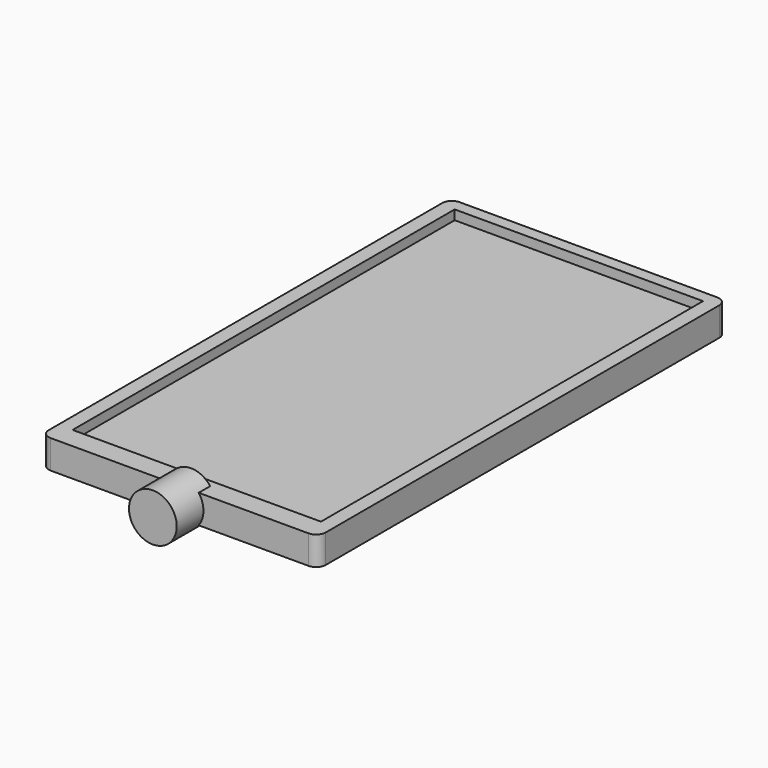
from build123d import *

# Parameters (mm, degrees)
SKETCH007_R       = 2.5
PAD006_DEPTH      = 5
SKETCH008_W       = 29
SKETCH008_H       = 3
PAD007_DEPTH      = 52
PAD007_DEPTH_BACK = 1.5
FILLET_R          = 1
SKETCH010_W       = 26
SKETCH010_H       = 50
POCKET001_DEPTH   = 1


with BuildPart() as part:
    # Sketch007 (on Face1 of CopyPad001) → Pad006 (new body)
    with BuildSketch(Plane(origin=(0, 17.25, 0), x_dir=(-1, 0, 0), z_dir=(0, 1, 0))):
        with Locations((0, -4)):
            Circle(SKETCH007_R)
    extrude(amount=PAD006_DEPTH)

    # Sketch008 (on Face3 of Pad006) → Pad007 (join, two sides)
    with BuildSketch(Plane(origin=(0, 22.25, 0), x_dir=(-1, 0, 0), z_dir=(0, 1, 0))) as pad007_sk:
        with Locations((0, -4)):
            Rectangle(SKETCH008_W, SKETCH008_H)
    extrude(amount=PAD007_DEPTH)
    extrude(pad007_sk.sketch, amount=-PAD007_DEPTH_BACK)

    # Fillet
    fillet_edges = [part.edges().sort_by_distance(p)[0] for p in [
        (14.5, 74.25, -4),
        (14.5, 20.75, -4),
        (-14.5, 74.25, -4),
        (-14.5, 20.75, -4),
    ]]
    fillet(fillet_edges, radius=FILLET_R)

    # Sketch010 (on Face5 of Fillet) → Pocket001 (cut)
    with BuildSketch(Plane.XY.offset(-2.5)):
        with Locations((0, 48)):
            Rectangle(SKETCH010_W, SKETCH010_H)
    extrude(amount=-POCKET001_DEPTH, mode=Mode.SUBTRACT)


solid = part.part
